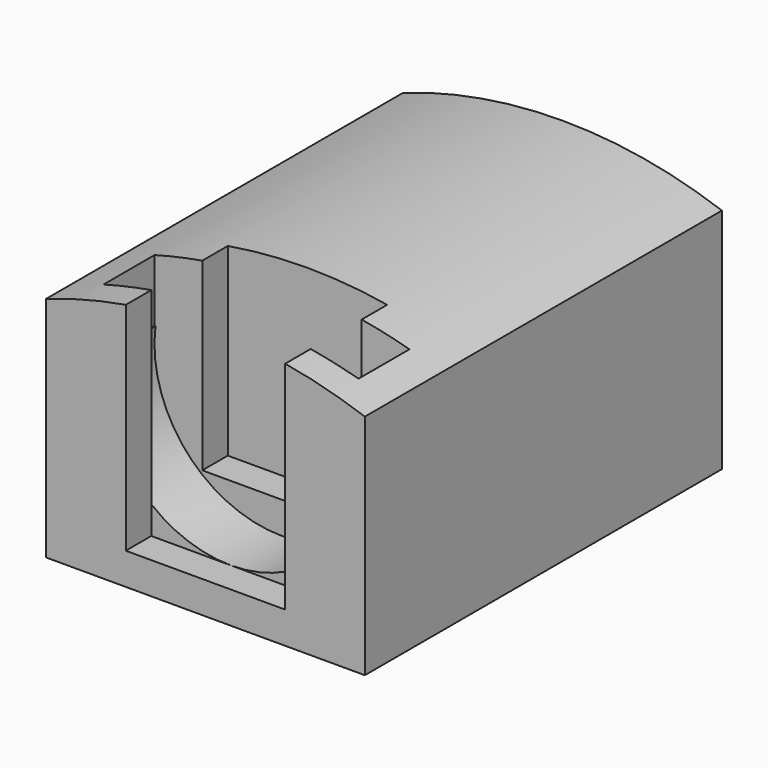
from build123d import *

# Parameters (mm, degrees)
BOX004_W               = 10
BOX004_H               = 10
BOX004_DEPTH           = 10
CYLINDER001_R          = 15
CYLINDER001_DEPTH      = 30
CYLINDER001_ROLL_ANGLE = 90
BOX003_W               = 8
BOX003_H               = 2
BOX003_DEPTH           = 2.5
BOX002_W               = 5
BOX002_H               = 1
BOX002_DEPTH           = 6
BOX001_W               = 5
BOX001_H               = 1
BOX001_DEPTH           = 7
CYLINDER_R             = 4
CYLINDER_DEPTH         = 2
CYLINDER_ROLL_ANGLE    = 90
BOX_W                  = 10
BOX_H                  = 20
BOX_DEPTH              = 8


with BuildPart() as obj1:
    # Box004 → Box004 (new body)
    with BuildSketch(Plane(origin=(0, 14, 0), x_dir=(1, 0, 0), z_dir=(0, 0, 1))):
        with Locations((5, 5)):
            Rectangle(BOX004_W, BOX004_H)
    extrude(amount=BOX004_DEPTH)


with BuildPart() as rounded_top:
    # Cylinder001 → Cylinder001 (new body)
    with BuildSketch(Plane.XY):
        Circle(CYLINDER001_R)
    extrude(amount=CYLINDER001_DEPTH)


with BuildPart() as rounded_top_1:
    # Cylinder001 roll: moved
    add(rounded_top.part.rotate(Axis((0, 0, 0), (1, 0, 0)), CYLINDER001_ROLL_ANGLE))


with BuildPart() as rounded_top_2:
    # Cylinder001 placement: moved
    add(rounded_top_1.part.moved(Location((5, 25, -7))))


with BuildPart() as cylinder_edge_refinement:
    # Box003 → Box003 (new body)
    with BuildSketch(Plane(origin=(1, 1, 5.5), x_dir=(1, 0, 0), z_dir=(0, 0, 1))):
        with Locations((4, 1)):
            Rectangle(BOX003_W, BOX003_H)
    extrude(amount=BOX003_DEPTH)


with BuildPart() as interior_opening:
    # Box002 → Box002 (new body)
    with BuildSketch(Plane(origin=(2.5, 3, 2), x_dir=(1, 0, 0), z_dir=(0, 0, 1))):
        with Locations((2.5, 0.5)):
            Rectangle(BOX002_W, BOX002_H)
    extrude(amount=BOX002_DEPTH)


with BuildPart() as end_opening:
    # Box001 → Box001 (new body)
    with BuildSketch(Plane(origin=(2.5, 0, 1), x_dir=(1, 0, 0), z_dir=(0, 0, 1))):
        with Locations((2.5, 0.5)):
            Rectangle(BOX001_W, BOX001_H)
    extrude(amount=BOX001_DEPTH)


with BuildPart() as solenoid_head_slot:
    # Cylinder → Cylinder (new body)
    with BuildSketch(Plane.XY):
        Circle(CYLINDER_R)
    extrude(amount=CYLINDER_DEPTH)


with BuildPart() as solenoid_head_slot_1:
    # Cylinder roll: moved
    add(solenoid_head_slot.part.rotate(Axis((0, 0, 0), (1, 0, 0)), CYLINDER_ROLL_ANGLE))


with BuildPart() as solenoid_head_slot_2:
    # Cylinder placement: moved
    add(solenoid_head_slot_1.part.moved(Location((5, 3, 5))))


with BuildPart() as cut004:
    # Box → Box (new body)
    with BuildSketch(Plane.XY):
        with Locations((5, 10)):
            Rectangle(BOX_W, BOX_H)
    extrude(amount=BOX_DEPTH)

    # Cut: cut solenoid_head_slot
    add(solenoid_head_slot_2.part, mode=Mode.SUBTRACT)

    # Cut001: cut end_opening
    add(end_opening.part, mode=Mode.SUBTRACT)

    # Cut002: cut interior_opening
    add(interior_opening.part, mode=Mode.SUBTRACT)

    # Cut003: cut cylinder_edge_refinement
    add(cylinder_edge_refinement.part, mode=Mode.SUBTRACT)

    # Common: intersect rounded_top
    add(rounded_top_2.part, mode=Mode.INTERSECT)

    # Cut004: cut obj1
    add(obj1.part, mode=Mode.SUBTRACT)


solid = cut004.part
